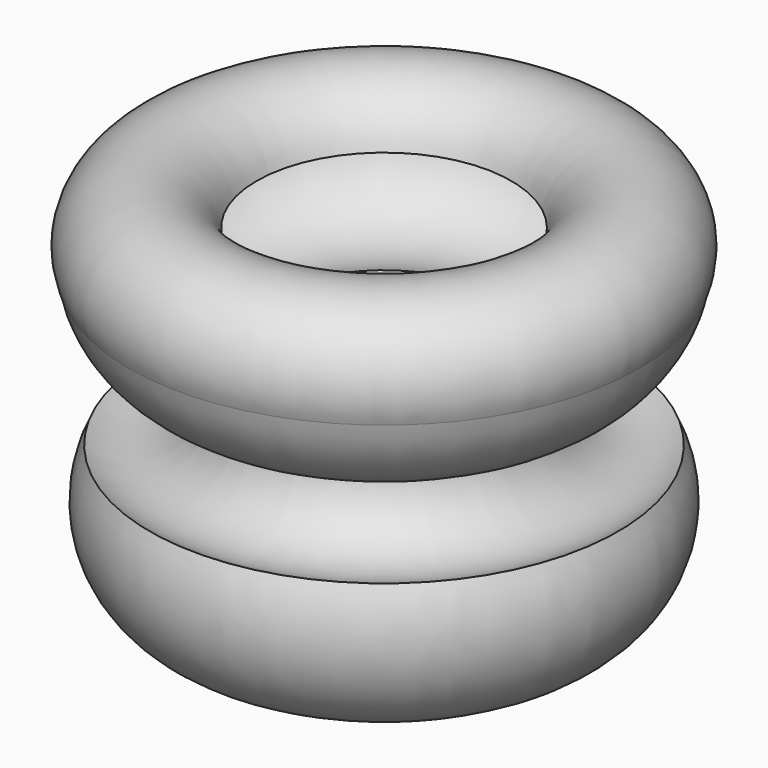
from build123d import *


with BuildPart() as f1:
    # F0 (on Front) → F1 (revolve)
    with BuildSketch(Plane.XZ):
        with BuildLine():
            ThreePointArc((-35.189617, 14.388743), (-43.525158, -0.794348), (-60.827658, 0))
            ThreePointArc((-60.827658, 0), (-56.213593, -32.183792), (-24.5071, -39.379925))
            Line((-24.5071, -39.379925), (-27.910585, -30.844587))
            ThreePointArc((-27.910585, -30.844587), (-46.414218, -28.6329), (-54.604543, -11.893886))
            ThreePointArc((-54.604543, -11.893886), (-30.610134, -1.193664), (-28.72144, 25.01052))
            ThreePointArc((-28.72144, 25.01052), (-47.046346, 26.420531), (-57.307585, 41.668392))
            ThreePointArc((-57.307585, 41.668392), (-52.927725, 53.241333), (-41.98191, 47.470261))
            Line((-41.98191, 47.470261), (-33.053115, 49.64105))
            ThreePointArc((-33.053115, 49.64105), (-55.360299, 62.122562), (-66.168919, 38.958531))
            ThreePointArc((-66.168919, 38.958531), (-55.243225, 20.919083), (-35.189617, 14.388743))
        make_face()
    revolve(axis=Axis((0, 0, 15.250752), (0, 0, 1)))


solid = f1.part
